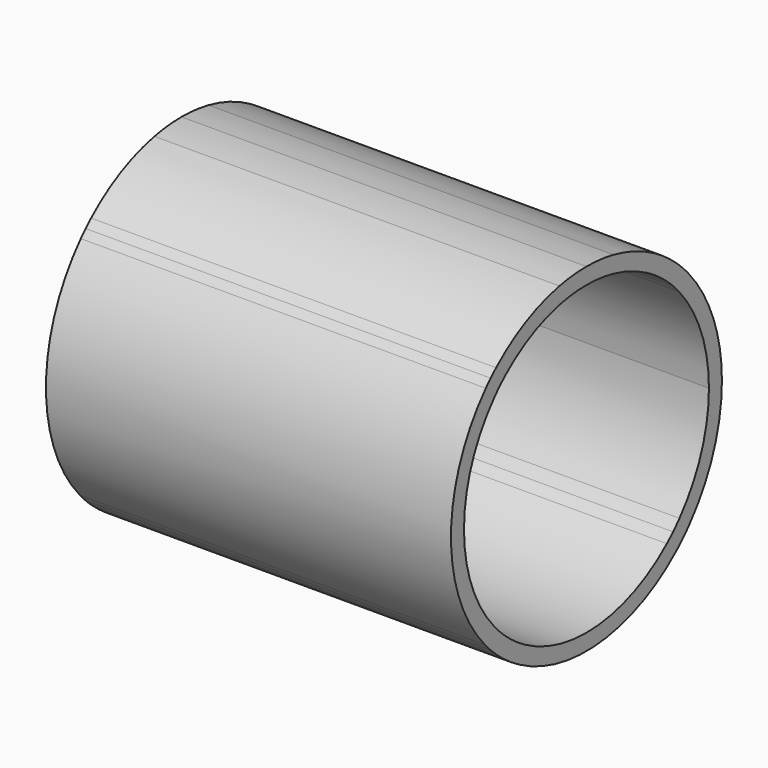
from build123d import *

# Parameters (mm, degrees)
F1_DEPTH = 1518.92


with BuildPart() as f1:
    # F0 (on Right) → F1 (new body)
    with BuildSketch(Plane.YZ):
        with BuildLine():
            ThreePointArc((480.980463, -414.587498), (595.251037, -221.136164), (635, 0))
            ThreePointArc((635, 0), (594.59559, 222.892541), (478.524143, 417.420226))
            Line((478.524143, 417.420226), (433.076157, 376.785037))
            ThreePointArc((433.076157, 376.785037), (537.64531, 201.145326), (574.04, 0))
            ThreePointArc((574.04, 0), (538.409559, -199.090604), (435.941371, -373.466254))
            Line((435.941371, -373.466254), (480.980463, -414.587498))
        make_face()
        with BuildLine():
            Line((433.076157, 376.785037), (478.524143, 417.420226))
            ThreePointArc((478.524143, 417.420226), (464.037413, 433.467738), (449.012806, 449.012806))
            Line((449.012806, 449.012806), (405.907577, 405.907577))
            ThreePointArc((405.907577, 405.907577), (419.744514, 391.582003), (433.076157, 376.785037))
        make_face()
        with BuildLine():
            ThreePointArc((449.012806, -449.012806), (465.315104, -432.095885), (480.980463, -414.587498))
            Line((480.980463, -414.587498), (435.941371, -373.466254))
            ThreePointArc((435.941371, -373.466254), (421.236896, -389.976152), (405.907577, -405.907577))
            Line((405.907577, -405.907577), (449.012806, -449.012806))
        make_face()
        with BuildLine():
            Line((405.907577, 405.907577), (449.012806, 449.012806))
            ThreePointArc((449.012806, 449.012806), (435.742724, 461.901806), (422.102823, 474.398784))
            Line((422.102823, 474.398784), (378.916513, 431.212474))
            ThreePointArc((378.916513, 431.212474), (392.615967, 418.777535), (405.907577, 405.907577))
        make_face()
        with BuildLine():
            ThreePointArc((419.544222, -476.663032), (434.498517, -463.07239), (449.012806, -449.012806))
            Line((449.012806, -449.012806), (405.907577, -405.907577))
            ThreePointArc((405.907577, -405.907577), (391.600447, -419.727306), (376.823096, -433.043042))
            Line((376.823096, -433.043042), (419.544222, -476.663032))
        make_face()
        with BuildLine():
            Line((378.916513, 431.212474), (422.102823, 474.398784))
            ThreePointArc((422.102823, 474.398784), (371.724601, 514.82601), (317.5, 549.926131))
            Line((317.5, 549.926131), (287.02, 497.133223))
            ThreePointArc((287.02, 497.133223), (334.595646, 466.441503), (378.916513, 431.212474))
        make_face()
        with BuildLine():
            ThreePointArc((-317.5, -549.926131), (62.81024, -631.885966), (419.544222, -476.663032))
            Line((419.544222, -476.663032), (376.823096, -433.043042))
            ThreePointArc((376.823096, -433.043042), (55.163728, -571.383308), (-287.02, -497.133223))
            Line((-287.02, -497.133223), (-317.5, -549.926131))
        make_face()
        with BuildLine():
            Line((287.02, 497.133223), (317.5, 549.926131))
            ThreePointArc((317.5, 549.926131), (225.321366, 593.679444), (127.324944, 622.103977))
            Line((127.324944, 622.103977), (127.324944, 559.741262))
            ThreePointArc((127.324944, 559.741262), (209.524163, 534.435728), (287.02, 497.133223))
        make_face()
        with BuildLine():
            ThreePointArc((-418.530904, -477.553015), (-369.790265, -516.217164), (-317.5, -549.926131))
            Line((-317.5, -549.926131), (-287.02, -497.133223))
            ThreePointArc((-287.02, -497.133223), (-334.044512, -466.836358), (-377.896873, -432.106324))
            Line((-377.896873, -432.106324), (-418.530904, -477.553015))
        make_face()
        with BuildLine():
            Line((127.324944, 559.741262), (127.324944, 622.103977))
            ThreePointArc((127.324944, 622.103977), (63.98818, 631.767768), (0, 635))
            Line((0, 635), (0, 574.04))
            ThreePointArc((0, 574.04), (64.062655, 570.454115), (127.324944, 559.741262))
        make_face()
        with BuildLine():
            ThreePointArc((-126.675056, 559.888696), (-63.731525, 570.491204), (0, 574.04))
            Line((0, 574.04), (0, 635))
            ThreePointArc((0, 635), (-63.658215, 631.801101), (-126.675056, 622.236635))
            Line((-126.675056, 622.236635), (-126.675056, 559.888696))
        make_face()
        with BuildLine():
            Line((-449.012806, 449.012806), (-405.907577, 405.907577))
            ThreePointArc((-405.907577, 405.907577), (-393.291672, 418.143016), (-380.307128, 429.986523))
            Line((-380.307128, 429.986523), (-423.485508, 473.164902))
            ThreePointArc((-423.485508, 473.164902), (-436.416267, 461.265479), (-449.012806, 449.012806))
        make_face()
        with BuildLine():
            ThreePointArc((-430.902621, 379.26884), (-418.617047, 392.787079), (-405.907577, 405.907577))
            Line((-405.907577, 405.907577), (-449.012806, 449.012806))
            ThreePointArc((-449.012806, 449.012806), (-460.561823, 437.15879), (-471.797995, 425.007826))
            Line((-471.797995, 425.007826), (-430.902621, 379.26884))
        make_face()
        with BuildLine():
            Line((-449.012806, -449.012806), (-405.907577, -405.907577))
            ThreePointArc((-405.907577, -405.907577), (-419.513463, -391.829524), (-432.631356, -377.295682))
            Line((-432.631356, -377.295682), (-475.827397, -420.491722))
            ThreePointArc((-475.827397, -420.491722), (-462.639939, -434.958948), (-449.012806, -449.012806))
        make_face()
        with BuildLine():
            ThreePointArc((-377.896873, -432.106324), (-392.121088, -419.24095), (-405.907577, -405.907577))
            Line((-405.907577, -405.907577), (-449.012806, -449.012806))
            ThreePointArc((-449.012806, -449.012806), (-434.006519, -463.533539), (-418.530904, -477.553015))
            Line((-418.530904, -477.553015), (-377.896873, -432.106324))
        make_face()
        with BuildLine():
            ThreePointArc((-380.307128, 429.986523), (-261.679914, 510.926163), (-126.675056, 559.888696))
            Line((-126.675056, 559.888696), (-126.675056, 622.236635))
            ThreePointArc((-126.675056, 622.236635), (-284.999574, 567.450653), (-423.485508, 473.164902))
            Line((-423.485508, 473.164902), (-380.307128, 429.986523))
        make_face()
        with BuildLine():
            ThreePointArc((-432.631356, -377.295682), (-574.038501, 1.311667), (-430.902621, 379.26884))
            Line((-430.902621, 379.26884), (-471.797995, 425.007826))
            ThreePointArc((-471.797995, 425.007826), (-634.992789, 3.026189), (-475.827397, -420.491722))
            Line((-475.827397, -420.491722), (-432.631356, -377.295682))
        make_face()
    extrude(amount=F1_DEPTH)


solid = f1.part
